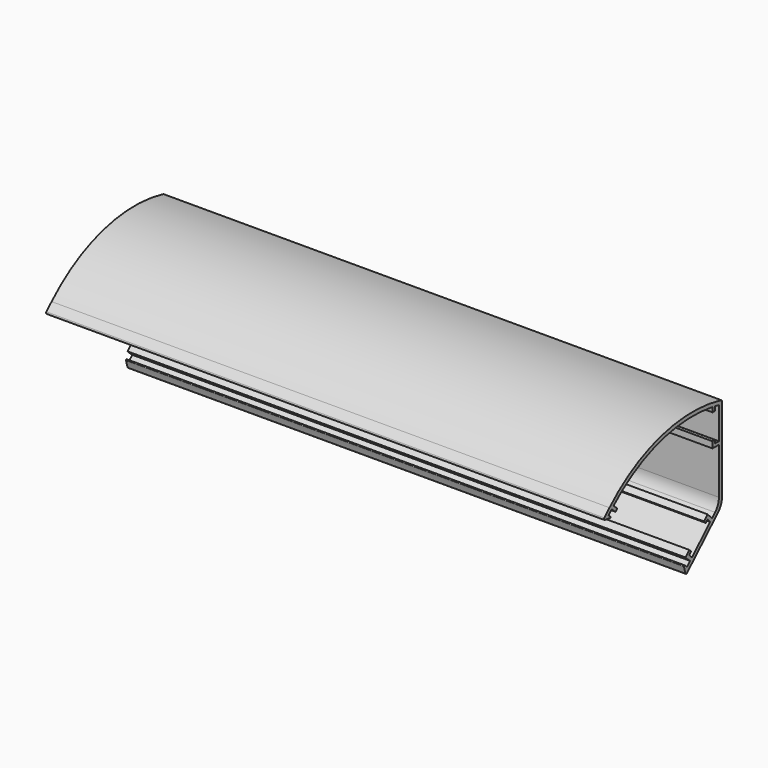
from build123d import *

# Parameters (mm, degrees)
F1_DEPTH  = 112.7125
F2_T      = -1.524
F5_DEPTH  = 225.425
F7_DEPTH  = 225.425
F8_R      = 47.1235523983
F9_DEPTH  = 225.425
F14_W     = 1.27
F14_H     = 1.9164090636
F15_DEPTH = 225.425
F16_R     = 0.508
F17_R     = 6.35
F18_R     = 0.254


with BuildPart() as f1:
    # F0 (on Right) → F1 (new body, symmetric)
    with BuildSketch(Plane.YZ):
        with BuildLine():
            Line((-60.206202515, 18.8091920411), (-18.2712309286, -17.6443226097))
            Line((-18.2712309286, -17.6443226097), (0, 0))
            Line((0, 0), (0, 37.338))
            ThreePointArc((0, 37.338), (-30.365960448, 37.0950138966), (-56.7851466581, 22.1224658109))
            Line((-56.7851466581, 22.1224658109), (-60.206202515, 18.8091920411))
        make_face()
    extrude(amount=F1_DEPTH, both=True)

    # F2
    f2_openings = [f1.faces().sort_by_distance(p)[0] for p in [
        (0, -39.238717, 0.582435),
        (-112.7125, -23.858996, 15.007627),
        (112.7125, -23.858996, 15.007627),
    ]]
    offset(amount=F2_T, openings=f2_openings)

    # F4 (on face) → F5 (join, through all)
    with BuildSketch(Plane(origin=(-112.7125, 0, 0), x_dir=(0, -1, 0), z_dir=(-1, 0, 0))):
        Polygon((57.1348145041, 16.1392751765), (59.0517768379, 17.8056651102), (57.2272137142, 19.5727444541), (55.3102513804, 17.9063545204), align=None)
    extrude(amount=-F5_DEPTH)

    # F6 (on face) → F7 (join, through all)
    with BuildSketch(Plane(origin=(-112.7125, 0, 0), x_dir=(0, -1, 0), z_dir=(-1, 0, 0))):
        Polygon((19.5156410606, -13.2098472516), (17.5986787268, -14.8762371852), (19.4258018197, -16.6406694462), (21.3427641534, -14.9742795125), align=None)
    extrude(amount=-F7_DEPTH)

    # F8 (on face) → F9 (cut, through all)
    with BuildSketch(Plane(origin=(-112.7125, 0, 0), x_dir=(0, -1, 0), z_dir=(-1, 0, 0))):
        with Locations((64.2101801841, -28.1439479334)):
            Circle(F8_R)
    extrude(amount=-F9_DEPTH, mode=Mode.SUBTRACT)

    # F10 (on face) + F11 (on face) + F12 (on face) + F13 (on face) + F14 (on face) → F15 (join, through all)
    with BuildSketch(Plane(origin=(-112.7125, 0, 0), x_dir=(0, -1, 0), z_dir=(-1, 0, 0))):
        Polygon((15.1320625515, -12.4942536329), (16.0456240979, -13.3764697634), (17.5273234081, -12.0884482036), (16.4906753924, -11.0873688514), align=None)
    with BuildSketch(Plane(origin=(-112.7125, 0, 0), x_dir=(0, -1, 0), z_dir=(-1, 0, 0))):
        Polygon((15.577113846, -10.2051527209), (17.5273234081, -12.0884482036), (18.4095395386, -11.1748866572), (16.4593299765, -9.2915911745), align=None)
    with BuildSketch(Plane(origin=(-112.7125, 0, 0), x_dir=(0, -1, 0), z_dir=(-1, 0, 0))):
        Polygon((53.7593727252, 19.4083719627), (55.676335059, 21.0747618964), (54.7640534971, 21.9583015683), (52.8470911634, 20.2919116347), align=None)
    with BuildSketch(Plane(origin=(-112.7125, 0, 0), x_dir=(0, -1, 0), z_dir=(-1, 0, 0))):
        Polygon((4.9915293861, -2.7016545845), (5.9050909325, -3.583870715), (7.2637037735, -2.1769859335), (8.1772653199, -3.059202064), (9.0594814504, -2.1456405176), (7.2323583575, -0.3812082566), align=None)
    with BuildSketch(Plane(origin=(-112.7125, 0, 0), x_dir=(0, -1, 0), z_dir=(-1, 0, 0))):
        Polygon((1.524, 23.3097989494), (1.524, 22.0397989494), (4.7498, 22.0397989494), (4.7498, 24.5797989494), (3.4798, 24.5797989494), (3.4798, 23.3097989494), align=None)
        with Locations((4.1148, 35.8250034812)):
            Rectangle(F14_W, F14_H)
    extrude(amount=-F15_DEPTH)

    # F16
    f16_edges = [f1.edges().sort_by_distance(p)[0] for p in [
        (0, -18.271231, -17.644323),
        (0, -60.206203, 18.809192),
        (0, 0, 37.338),
    ]]
    fillet(f16_edges, radius=F16_R)

    # F17
    f17_edges = [f1.edges().sort_by_distance(p)[0] for p in [
        (0, -1.524, 0.6469),
        (0, 0, 0),
    ]]
    fillet(f17_edges, radius=F17_R)

    # F18
    f18_edges = [f1.edges().sort_by_distance(p)[0] for p in [
        (0, -19.515641, -13.209847),
        (0, -55.641079, 18.193938),
    ]]
    fillet(f18_edges, radius=F18_R)


solid = f1.part
